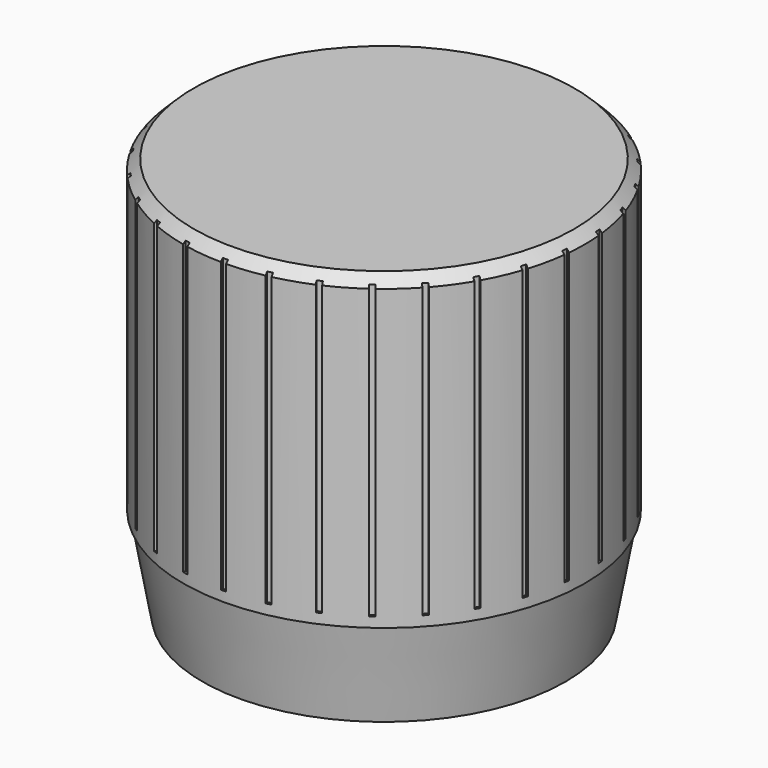
from build123d import *

# Parameters (mm, degrees)
F0_R     = 19.5
F1_DEPTH = 30
F2_SIZE  = 1
F5_R     = 15.25
F6_DEPTH = 30
F7_W     = 0.5
F7_H     = 0.5
F8_DEPTH = 29.032


with BuildPart() as f1:
    # F0 (on Top) → F1 (new body)
    with BuildSketch(Plane.XY):
        Circle(F0_R)
    extrude(amount=-F1_DEPTH)

    # F2
    f2_edges = [f1.edges().sort_by_distance(p)[0] for p in [
        (-19.5, 0, 0),
    ]]
    chamfer(f2_edges, length=F2_SIZE)

    # F3 (on Front) → F4 (revolve)
    with BuildSketch(Plane.XZ):
        Polygon((19.25, -30), (0, -30), (0, -39), (17.6423, -39), align=None)
    revolve(axis=Axis((0, 0, -34.5), (0, 0, -1)))

    # F5 (on face) → F6 (cut)
    with BuildSketch(Plane(origin=(0, 0, -39), x_dir=(1, 0, 0), z_dir=(0, 0, -1))):
        with Locations((0.772339, 0)):
            Circle(F5_R)
    extrude(amount=-F6_DEPTH, mode=Mode.SUBTRACT)

    # F7 (on face) → F8 (cut)
    with BuildSketch(Plane.XY):
        with Locations((0, 19.501211)):
            Rectangle(F7_W, F7_H)
        Polygon((-4.351045, 19.267622), (-4.247089, 18.778548), (-3.758015, 18.882504), (-3.861971, 19.371578), align=None)
        Polygon((-8.261928, 17.941945), (-8.058559, 17.485172), (-7.601787, 17.688541), (-7.805155, 18.145313), align=None)
        Polygon((-11.811725, 15.832119), (-11.517832, 15.427611), (-11.113324, 15.721503), (-11.407216, 16.126012), align=None)
        Polygon((-14.845293, 13.030354), (-14.473721, 12.695788), (-14.139155, 13.067361), (-14.510728, 13.401926), align=None)
        Polygon((-17.230051, 9.659099), (-16.797038, 9.409099), (-16.547038, 9.842112), (-16.980051, 10.092112), align=None)
        Polygon((-18.861772, 5.865696), (-18.386244, 5.711187), (-18.231736, 6.186716), (-18.707264, 6.341224), align=None)
        Polygon((-19.669144, 1.815933), (-19.171883, 1.763669), (-19.119619, 2.26093), (-19.61688, 2.313194), align=None)
        Polygon((-19.61688, -2.313194), (-19.119619, -2.26093), (-19.171883, -1.763669), (-19.669144, -1.815933), align=None)
        Polygon((-18.707264, -6.341224), (-18.231736, -6.186716), (-18.386244, -5.711187), (-18.861772, -5.865696), align=None)
        Polygon((-16.980051, -10.092112), (-16.547038, -9.842112), (-16.797038, -9.409099), (-17.230051, -9.659099), align=None)
        Polygon((-14.510728, -13.401926), (-14.139155, -13.067361), (-14.473721, -12.695788), (-14.845293, -13.030354), align=None)
        Polygon((-11.407216, -16.126012), (-11.113324, -15.721503), (-11.517832, -15.427611), (-11.811725, -15.832119), align=None)
        Polygon((-7.805155, -18.145313), (-7.601787, -17.688541), (-8.058559, -17.485172), (-8.261928, -17.941945), align=None)
        Polygon((-3.861971, -19.371578), (-3.758015, -18.882504), (-4.247089, -18.778548), (-4.351045, -19.267622), align=None)
        with Locations((0, -19.501211)):
            Rectangle(F7_W, F7_H)
        Polygon((4.351045, -19.267622), (4.247089, -18.778548), (3.758015, -18.882504), (3.861971, -19.371578), align=None)
        Polygon((8.261928, -17.941945), (8.058559, -17.485172), (7.601787, -17.688541), (7.805155, -18.145313), align=None)
        Polygon((11.811725, -15.832119), (11.517832, -15.427611), (11.113324, -15.721503), (11.407216, -16.126012), align=None)
        Polygon((14.845293, -13.030354), (14.473721, -12.695788), (14.139155, -13.067361), (14.510728, -13.401926), align=None)
        Polygon((17.230051, -9.659099), (16.797038, -9.409099), (16.547038, -9.842112), (16.980051, -10.092112), align=None)
        Polygon((18.861772, -5.865696), (18.386244, -5.711187), (18.231736, -6.186716), (18.707264, -6.341224), align=None)
        Polygon((19.669144, -1.815933), (19.171883, -1.763669), (19.119619, -2.26093), (19.61688, -2.313194), align=None)
        Polygon((19.61688, 2.313194), (19.119619, 2.26093), (19.171883, 1.763669), (19.669144, 1.815933), align=None)
        Polygon((18.707264, 6.341224), (18.231736, 6.186716), (18.386244, 5.711187), (18.861772, 5.865696), align=None)
        Polygon((16.980051, 10.092112), (16.547038, 9.842112), (16.797038, 9.409099), (17.230051, 9.659099), align=None)
        Polygon((14.510728, 13.401926), (14.139155, 13.067361), (14.473721, 12.695788), (14.845293, 13.030354), align=None)
        Polygon((11.407216, 16.126012), (11.113324, 15.721503), (11.517832, 15.427611), (11.811725, 15.832119), align=None)
        Polygon((7.805155, 18.145313), (7.601787, 17.688541), (8.058559, 17.485172), (8.261928, 17.941945), align=None)
        Polygon((3.861971, 19.371578), (3.758015, 18.882504), (4.247089, 18.778548), (4.351045, 19.267622), align=None)
    extrude(amount=-F8_DEPTH, mode=Mode.SUBTRACT)


solid = f1.part
